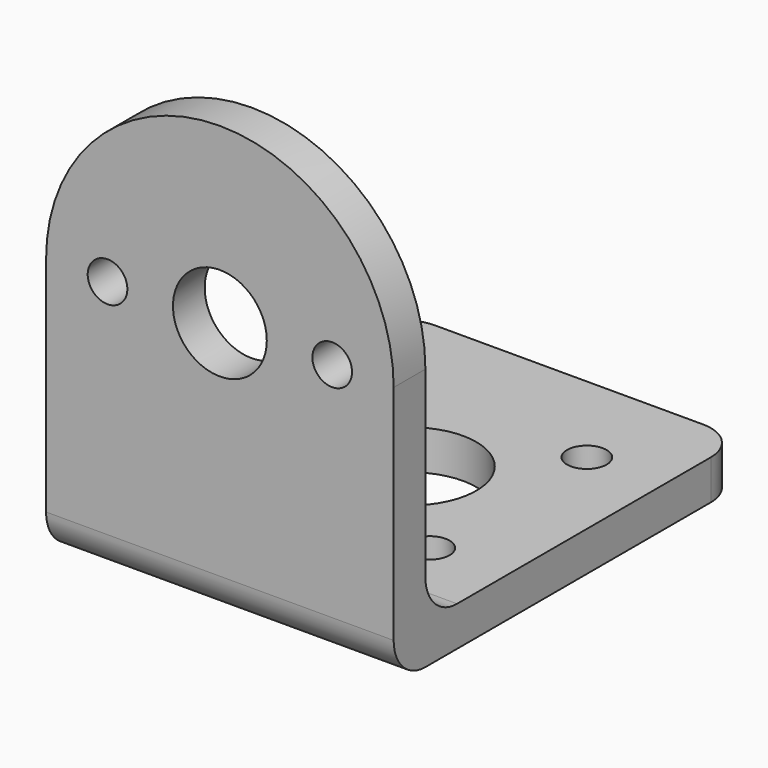
from build123d import *

# Parameters (mm, degrees)
SKETCH_R      = 3.55
SKETCH_R_2    = 1.5
PAD_DEPTH     = 3
SKETCH001_W   = 26.3
SKETCH001_H   = 3
PAD001_DEPTH  = 30
SKETCH002_R   = 5
SKETCH002_R_2 = 1.5
POCKET_DEPTH  = 3
FILLET_R      = 3
FILLET001_R   = 3


with BuildPart() as part:
    # Sketch → Pad (new body)
    with BuildSketch(Plane.XZ):
        with BuildLine():
            ThreePointArc((13.15, 0), (0, 13.15), (-13.15, 0))
            Line((-13.15, 0), (-13.15, -19.85))
            Line((13.15, -19.85), (-13.15, -19.85))
            Line((13.15, 0), (13.15, -19.85))
        make_face()
        Circle(SKETCH_R, mode=Mode.SUBTRACT)
        with Locations((8.5, 0)):
            Circle(SKETCH_R_2, mode=Mode.SUBTRACT)
        with Locations((-8.5, 0)):
            Circle(SKETCH_R_2, mode=Mode.SUBTRACT)
    extrude(amount=-PAD_DEPTH)

    # Sketch001 (on Face9 of Pad) → Pad001 (join)
    with BuildSketch(Plane(origin=(0, 3, 0), x_dir=(1, 0, 0), z_dir=(0, 1, 0))):
        with Locations((0, 18.35)):
            Rectangle(SKETCH001_W, SKETCH001_H)
    extrude(amount=PAD001_DEPTH)

    # Sketch002 (on Face7 of Pad001) → Pocket (cut)
    with BuildSketch(Plane(origin=(0, 0, -16.85), x_dir=(-1, 0, 0), z_dir=(0, 0, 1))):
        with Locations((0, -18)):
            Circle(SKETCH002_R)
        with Locations((-7.424621, -25.424621)):
            Circle(SKETCH002_R_2)
        with Locations((7.424621, -25.424621)):
            Circle(SKETCH002_R_2)
        with Locations((7.424621, -10.575379)):
            Circle(SKETCH002_R_2)
        with Locations((-7.424621, -10.575379)):
            Circle(SKETCH002_R_2)
    extrude(amount=-POCKET_DEPTH, mode=Mode.SUBTRACT)

    # Fillet
    fillet_edges = [part.edges().sort_by_distance(p)[0] for p in [
        (13.15, 33, -18.35),
        (-13.15, 33, -18.35),
    ]]
    fillet(fillet_edges, radius=FILLET_R)

    # Fillet001
    fillet001_edges = [part.edges().sort_by_distance(p)[0] for p in [
        (0, 3, -16.85),
        (0, 0, -19.85),
    ]]
    fillet(fillet001_edges, radius=FILLET001_R)


solid = part.part
